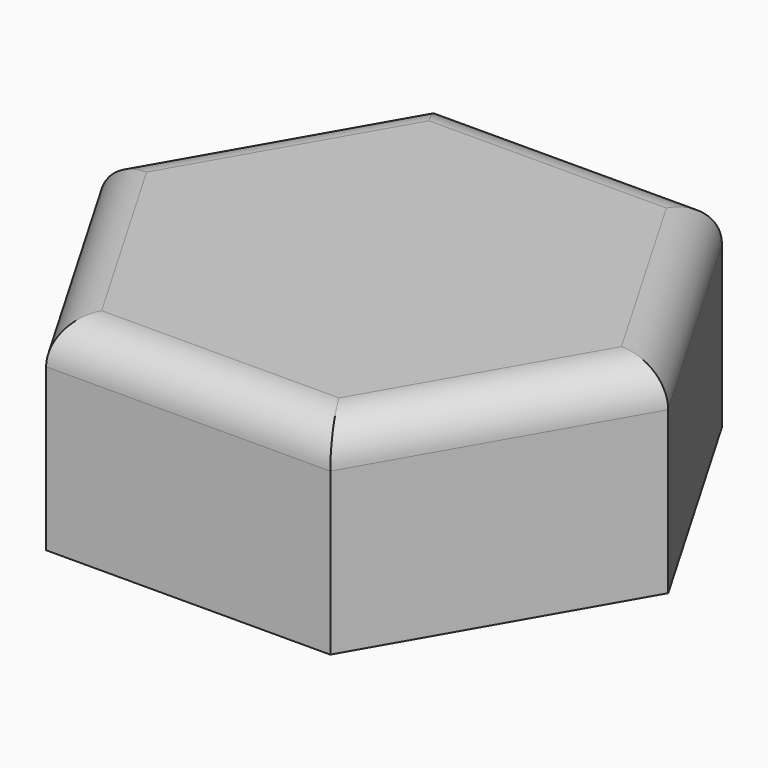
from build123d import *

# Parameters (mm, degrees)
F1_DEPTH = 25.4
F2_R     = 5.08


with BuildPart() as f1:
    # F0 (on Top) → F1 (new body)
    with BuildSketch(Plane.XY):
        Polygon((-27.146846, -15.661945), (8.517105, -15.565745), (26.265768, 15.368244), (8.35048, 46.206031), (-27.313471, 46.10983), (-45.062134, 15.175842), align=None)
    extrude(amount=F1_DEPTH)

    # F2
    f2_edges = [f1.edges().sort_by_distance(p)[0] for p in [
        (-36.187802, 30.642836, 25.4),
        (-9.481495, 46.15793, 25.4),
        (17.308124, 30.787137, 25.4),
        (17.391437, -0.098751, 25.4),
        (-9.31487, -15.613845, 25.4),
        (-36.10449, -0.243052, 25.4),
    ]]
    fillet(f2_edges, radius=F2_R)


solid = f1.part
